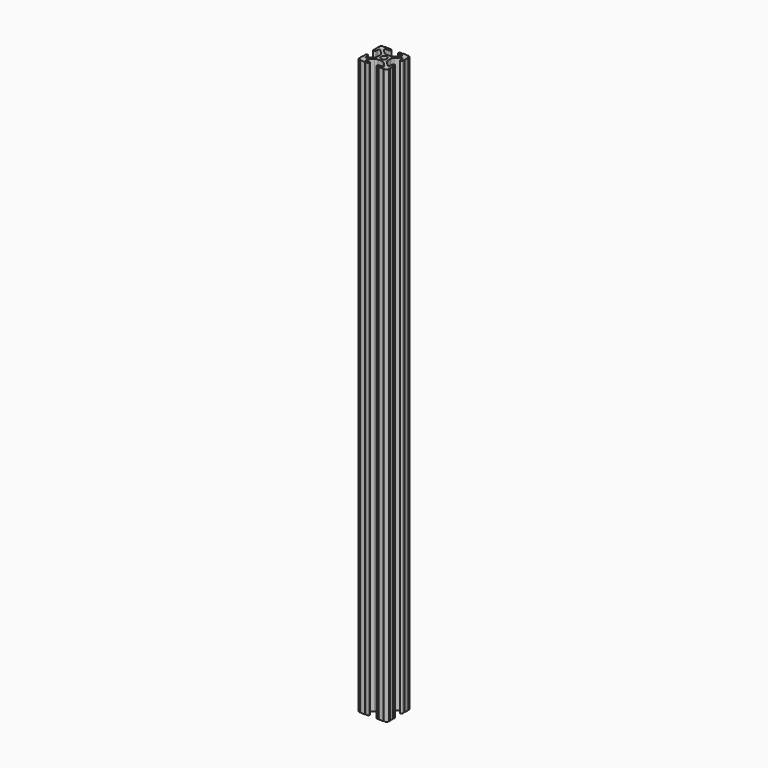
from build123d import *

# Parameters (mm, degrees)
SKETCH097_R   = 2.6035
EXTRUDE_DEPTH = 493.7252


with BuildPart() as part:
    # Sketch097 → Extrude (new body)
    with BuildSketch(Plane.XY):
        with BuildLine():
            ThreePointArc((12.7, 6.333084), (12.192, 5.825084), (12.7, 5.317084))
            Line((12.7, 4.287469), (12.7, 5.317084))
            ThreePointArc((11.650988, 3.238457), (12.392751, 3.545706), (12.7, 4.287469))
            Line((11.539212, 3.238457), (11.650988, 3.238457))
            ThreePointArc((10.4902, 4.287469), (10.797449, 3.545706), (11.539212, 3.238457))
            Line((10.4902, 6.402089), (10.4902, 4.287469))
            ThreePointArc((10.4902, 6.402089), (9.856505, 7.351068), (8.737131, 7.129409))
            Line((5.441006, 3.840816), (8.737131, 7.129409))
            ThreePointArc((5.441006, 3.840816), (4.750878, 2.809883), (4.5085, 1.593186))
            Line((4.5085, -1.593186), (4.5085, 1.593186))
            ThreePointArc((4.5085, -1.593186), (4.750878, -2.809883), (5.441006, -3.840816))
            Line((8.737131, -7.129409), (5.441006, -3.840816))
            ThreePointArc((8.737131, -7.129409), (9.856505, -7.351068), (10.4902, -6.402089))
            Line((10.4902, -4.287469), (10.4902, -6.402089))
            ThreePointArc((11.539212, -3.238457), (10.797449, -3.545706), (10.4902, -4.287469))
            Line((11.650988, -3.238457), (11.539212, -3.238457))
            ThreePointArc((12.7, -4.287469), (12.392751, -3.545706), (11.650988, -3.238457))
            Line((12.7, -5.317084), (12.7, -4.287469))
            ThreePointArc((12.7, -5.317084), (12.192, -5.825084), (12.7, -6.333084))
            Line((12.7, -9.5504), (12.7, -6.333084))
            ThreePointArc((12.7, -9.5504), (12.192, -10.058323), (12.699847, -10.5664))
            ThreePointArc((10.566443, -12.699848), (12.082538, -12.082507), (12.699847, -10.5664))
            ThreePointArc((10.566443, -12.699848), (10.058367, -12.192), (9.550443, -12.7))
            Line((6.333127, -12.7), (9.550443, -12.7))
            ThreePointArc((6.333127, -12.7), (5.825127, -12.192), (5.317127, -12.7))
            Line((4.287512, -12.7), (5.317127, -12.7))
            ThreePointArc((3.2385, -11.650988), (3.545749, -12.392751), (4.287512, -12.7))
            Line((3.2385, -11.539212), (3.2385, -11.650988))
            ThreePointArc((4.287512, -10.4902), (3.545749, -10.797449), (3.2385, -11.539212))
            Line((6.416408, -10.4902), (4.287512, -10.4902))
            ThreePointArc((6.416408, -10.4902), (7.414731, -9.822813), (7.17965, -8.645193))
            Line((3.95227, -5.42369), (7.17965, -8.645193))
            ThreePointArc((3.95227, -5.42369), (2.922936, -4.736929), (1.709254, -4.4958))
            Line((-1.709254, -4.4958), (1.709254, -4.4958))
            ThreePointArc((-1.709254, -4.4958), (-2.922936, -4.736929), (-3.95227, -5.42369))
            Line((-7.17965, -8.645193), (-3.95227, -5.42369))
            ThreePointArc((-7.17965, -8.645193), (-7.414731, -9.822813), (-6.416408, -10.4902))
            Line((-4.287512, -10.4902), (-6.416408, -10.4902))
            ThreePointArc((-3.2385, -11.539212), (-3.545749, -10.797449), (-4.287512, -10.4902))
            Line((-3.2385, -11.650988), (-3.2385, -11.539212))
            ThreePointArc((-4.287512, -12.7), (-3.545749, -12.392751), (-3.2385, -11.650988))
            Line((-5.317127, -12.7), (-4.287512, -12.7))
            ThreePointArc((-5.317127, -12.7), (-5.825127, -12.192), (-6.333127, -12.7))
            Line((-9.550443, -12.7), (-6.333127, -12.7))
            ThreePointArc((-9.550443, -12.7), (-10.058367, -12.192), (-10.566443, -12.699848))
            ThreePointArc((-12.699847, -10.5664), (-12.082538, -12.082507), (-10.566443, -12.699848))
            ThreePointArc((-12.699847, -10.5664), (-12.192, -10.058323), (-12.7, -9.5504))
            Line((-12.7, -6.333084), (-12.7, -9.5504))
            ThreePointArc((-12.7, -6.333084), (-12.192, -5.825084), (-12.7, -5.317084))
            Line((-12.7, -4.287469), (-12.7, -5.317084))
            ThreePointArc((-11.650988, -3.238457), (-12.392751, -3.545706), (-12.7, -4.287469))
            Line((-11.539212, -3.238457), (-11.650988, -3.238457))
            ThreePointArc((-10.4902, -4.287469), (-10.797449, -3.545706), (-11.539212, -3.238457))
            Line((-10.4902, -6.402089), (-10.4902, -4.287469))
            ThreePointArc((-10.4902, -6.402089), (-9.856505, -7.351068), (-8.737131, -7.129409))
            Line((-5.441006, -3.840816), (-8.737131, -7.129409))
            ThreePointArc((-5.441006, -3.840816), (-4.750878, -2.809883), (-4.5085, -1.593186))
            Line((-4.5085, 1.593186), (-4.5085, -1.593186))
            ThreePointArc((-4.5085, 1.593186), (-4.750878, 2.809883), (-5.441006, 3.840816))
            Line((-8.737131, 7.129409), (-5.441006, 3.840816))
            ThreePointArc((-8.737131, 7.129409), (-9.856505, 7.351068), (-10.4902, 6.402089))
            Line((-10.4902, 4.287469), (-10.4902, 6.402089))
            ThreePointArc((-11.539212, 3.238457), (-10.797449, 3.545706), (-10.4902, 4.287469))
            Line((-11.650988, 3.238457), (-11.539212, 3.238457))
            ThreePointArc((-12.7, 4.287469), (-12.392751, 3.545706), (-11.650988, 3.238457))
            Line((-12.7, 5.317084), (-12.7, 4.287469))
            ThreePointArc((-12.7, 5.317084), (-12.192, 5.825084), (-12.7, 6.333084))
            Line((-12.7, 9.5504), (-12.7, 6.333084))
            ThreePointArc((-12.7, 9.5504), (-12.192, 10.058323), (-12.699847, 10.5664))
            ThreePointArc((-10.566443, 12.699848), (-12.082538, 12.082507), (-12.699847, 10.5664))
            ThreePointArc((-10.566443, 12.699848), (-10.058367, 12.192), (-9.550443, 12.7))
            Line((-6.333127, 12.7), (-9.550443, 12.7))
            ThreePointArc((-6.333127, 12.7), (-5.825127, 12.192), (-5.317127, 12.7))
            Line((-4.287512, 12.7), (-5.317127, 12.7))
            ThreePointArc((-3.2385, 11.650988), (-3.545749, 12.392751), (-4.287512, 12.7))
            Line((-3.2385, 11.539212), (-3.2385, 11.650988))
            ThreePointArc((-4.287512, 10.4902), (-3.545749, 10.797449), (-3.2385, 11.539212))
            Line((-6.476789, 10.4902), (-4.287512, 10.4902))
            ThreePointArc((-6.476789, 10.4902), (-7.432222, 9.851404), (-7.207036, 8.724371))
            Line((-3.898273, 5.423169), (-7.207036, 8.724371))
            ThreePointArc((-3.898273, 5.423169), (-2.86912, 4.736788), (-1.655778, 4.4958))
            Line((1.655778, 4.4958), (-1.655778, 4.4958))
            ThreePointArc((1.655778, 4.4958), (2.86912, 4.736788), (3.898273, 5.423169))
            Line((7.207036, 8.724371), (3.898273, 5.423169))
            ThreePointArc((7.207036, 8.724371), (7.432222, 9.851404), (6.476789, 10.4902))
            Line((4.287512, 10.4902), (6.476789, 10.4902))
            ThreePointArc((3.2385, 11.539212), (3.545749, 10.797449), (4.287512, 10.4902))
            Line((3.2385, 11.650988), (3.2385, 11.539212))
            ThreePointArc((4.287512, 12.7), (3.545749, 12.392751), (3.2385, 11.650988))
            Line((5.317127, 12.7), (4.287512, 12.7))
            ThreePointArc((5.317127, 12.7), (5.825127, 12.192), (6.333127, 12.7))
            Line((9.550443, 12.7), (6.333127, 12.7))
            ThreePointArc((9.550443, 12.7), (10.058367, 12.192), (10.566443, 12.699848))
            ThreePointArc((12.699847, 10.5664), (12.082538, 12.082507), (10.566443, 12.699848))
            ThreePointArc((12.699847, 10.5664), (12.192, 10.058323), (12.7, 9.5504))
            Line((12.7, 6.333084), (12.7, 9.5504))
        make_face()
        Circle(SKETCH097_R, mode=Mode.SUBTRACT)
    extrude(amount=EXTRUDE_DEPTH)


solid = part.part
